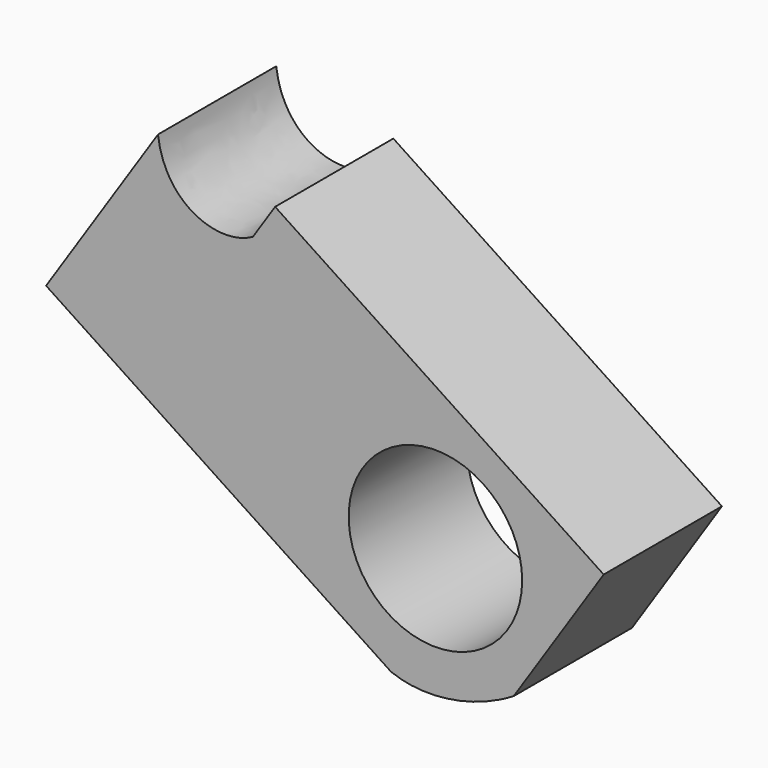
from build123d import *

# Parameters (mm, degrees)
F0_R     = 2.683726
F1_DEPTH = 4.572


with BuildPart() as f1:
    # F0 (on Front) → F1 (new body)
    with BuildSketch(Plane.XZ):
        with BuildLine():
            Line((25.310985, -22.970802), (28.093947, -18.754418))
            Line((28.093947, -18.754418), (17.928825, -12.04508))
            Line((17.928825, -12.04508), (17.243224, -13.083814))
            add(Edge.make_bspline(
                [(14.305283, -11.253849), (14.527919, -13.088348), (16.233271, -13.663207), (17.243224, -13.083814)],
                knots=[0, 0, 0, 0, 3.461252, 3.461252, 3.461252, 3.461252], degree=3))
            Line((14.305283, -11.253849), (10.843506, -16.498686))
            Line((10.843506, -16.498686), (21.512225, -23.540416))
            add(Edge.make_bspline(
                [(21.512225, -23.540416), (22.463378, -23.924239), (23.950653, -23.793526), (25.310985, -22.970802)],
                knots=[0, 0, 0, 0, 3.841229, 3.841229, 3.841229, 3.841229], degree=3))
        make_face()
        with Locations((22.88826, -19.738317)):
            Circle(F0_R, mode=Mode.SUBTRACT)
    extrude(amount=F1_DEPTH)


solid = f1.part
